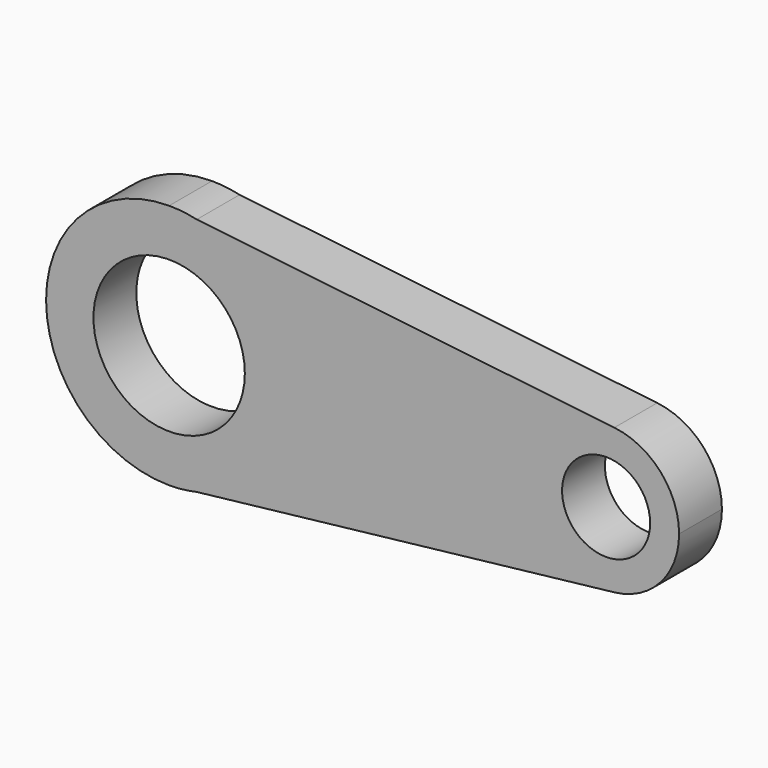
from build123d import *

# Parameters (mm, degrees)
F0_R     = 10.4450787522
F0_R_2   = 17.9523896741
F1_DEPTH = 12.7


with BuildPart() as f1:
    # F0 (on Front) → F1 (new body)
    with BuildSketch(Plane.XZ):
        with BuildLine():
            ThreePointArc((6.5456448621, 28.445439993), (3.2938622414, 29.0023963595), (0, 29.1888424412))
            Line((0, 29.1888424412), (6.5456448621, 28.445439993))
        make_face()
        with BuildLine():
            Line((6.5456448621, -28.445439993), (0, -29.1888424412))
            ThreePointArc((0, -29.1888424412), (3.2938622414, -29.0023963595), (6.5456448621, -28.445439993))
        make_face()
        with BuildLine():
            Line((105.5961571199, 17.1960681041), (6.5456448621, 28.445439993))
            ThreePointArc((6.5456448621, 28.445439993), (22.8369034636, 18.1786788092), (29.1888424412, 0))
            ThreePointArc((29.1888424412, 0), (22.8369034636, -18.1786788092), (6.5456448621, -28.445439993))
            Line((6.5456448621, -28.445439993), (105.5961571199, -17.1960681041))
            ThreePointArc((105.5961571199, -17.1960681041), (86.3365485343, 0), (105.5961571199, 17.1960681041))
        make_face()
        with BuildLine():
            ThreePointArc((120.949779543, 0), (116.5528239985, 11.5264747403), (105.5961571199, 17.1960681041))
            ThreePointArc((105.5961571199, 17.1960681041), (86.3365485343, 0), (105.5961571199, -17.1960681041))
            ThreePointArc((105.5961571199, -17.1960681041), (116.5528239985, -11.5264747403), (120.949779543, 0))
        make_face()
        with Locations((103.6431640387, 0)):
            Circle(F0_R, mode=Mode.SUBTRACT)
        with BuildLine():
            Line((6.5456448621, 28.445439993), (0, 29.1888424412))
            ThreePointArc((0, 29.1888424412), (-29.1888424412, 0), (0, -29.1888424412))
            Line((0, -29.1888424412), (6.5456448621, -28.445439993))
            ThreePointArc((6.5456448621, -28.445439993), (22.8369034636, -18.1786788092), (29.1888424412, 0))
            ThreePointArc((29.1888424412, 0), (22.8369034636, 18.1786788092), (6.5456448621, 28.445439993))
        make_face()
        Circle(F0_R_2, mode=Mode.SUBTRACT)
    extrude(amount=F1_DEPTH)


solid = f1.part
